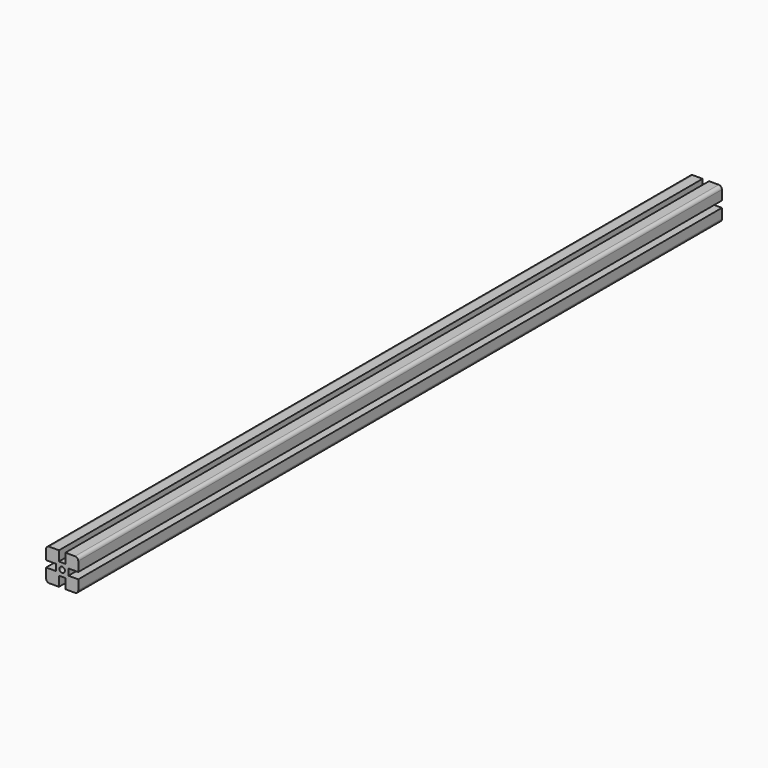
from build123d import *

# Parameters (mm, degrees)
F1_DEPTH = 500
F2_R     = 4
F3_R     = 3.4
F4_DEPTH = 1000


with BuildPart() as f1:
    # F0 (on Front) → F1 (new body, symmetric)
    with BuildSketch(Plane.XZ):
        Polygon((20, 4), (20, 20), (4, 20), (4, 7.75), (-4, 7.75), (-4, 20), (-20, 20), (-20, 4), (-7.75, 4), (-7.75, -4), (-20, -4), (-20, -20), (-4, -20), (-4, -7.75), (4, -7.75), (4, -20), (20, -20), (20, -4), (7.75, -4), (7.75, 4), align=None)
    extrude(amount=F1_DEPTH, both=True)

    # F2
    f2_edges = [f1.edges().sort_by_distance(p)[0] for p in [
        (-20, 0, 20),
        (20, 0, 20),
        (20, 0, -20),
        (-20, 0, -20),
    ]]
    fillet(f2_edges, radius=F2_R)

    # F3 (on face) → F4 (cut)
    with BuildSketch(Plane.XZ.offset(500)):
        Circle(F3_R)
    extrude(amount=-F4_DEPTH, mode=Mode.SUBTRACT)


solid = f1.part
